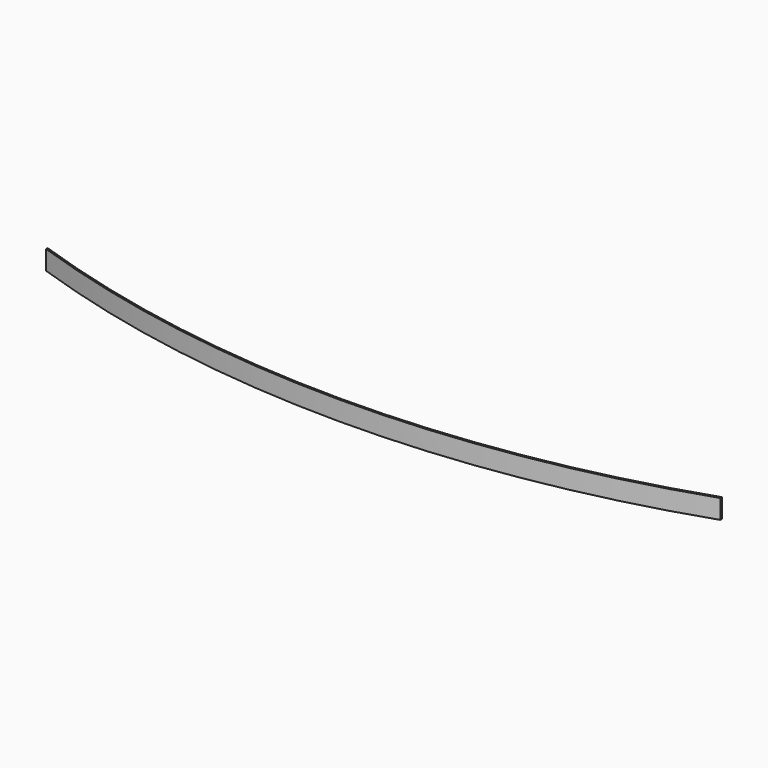
from build123d import *

# Parameters (mm, degrees)
PAD_DEPTH = 10


with BuildPart() as part:
    # Sketch → Pad (new body)
    with BuildSketch(Plane.XY):
        with BuildLine():
            ThreePointArc((0, 0), (175, -29.05576), (350, 0))
            Line((350, -1.000016), (350, 0))
            ThreePointArc((0, -1.000016), (175, -30.028185), (350, -1.000016))
            Line((0, 0), (0, -1.000016))
        make_face()
    extrude(amount=PAD_DEPTH)


solid = part.part
